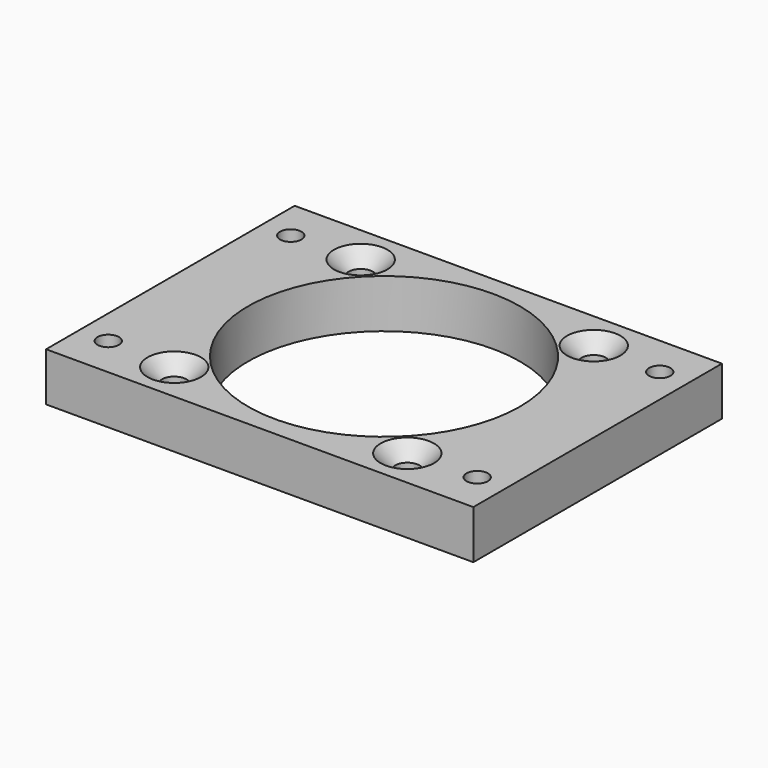
from build123d import *

# Parameters (mm, degrees)
CYLINDER006_R     = 1.25
CYLINDER006_DEPTH = 10
CYLINDER007_R     = 1.25
CYLINDER007_DEPTH = 10
CYLINDER008_R     = 1.25
CYLINDER008_DEPTH = 10
CYLINDER001_R     = 1.25
CYLINDER001_DEPTH = 10
CYLINDER003_R     = 1.1
CYLINDER003_DEPTH = 10
CYLINDER004_R     = 1.1
CYLINDER004_DEPTH = 10
CYLINDER005_R     = 1.1
CYLINDER005_DEPTH = 10
CYLINDER002_R     = 1.1
CYLINDER002_DEPTH = 10
CYLINDER_R        = 14
CYLINDER_DEPTH    = 10
BOX_W             = 44
BOX_H             = 32
BOX_DEPTH         = 5
CHAMFER_SIZE      = 1.5
CHAMFER001_SIZE   = 1.5


with BuildPart() as cylinder006:
    # Cylinder006 → Cylinder006 (new body)
    with BuildSketch(Plane(origin=(10, 28, 0), x_dir=(1, 0, 0), z_dir=(0, 0, 1))):
        Circle(CYLINDER006_R)
    extrude(amount=CYLINDER006_DEPTH)


with BuildPart() as cylinder007:
    # Cylinder007 → Cylinder007 (new body)
    with BuildSketch(Plane(origin=(34, 28, 0), x_dir=(1, 0, 0), z_dir=(0, 0, 1))):
        Circle(CYLINDER007_R)
    extrude(amount=CYLINDER007_DEPTH)


with BuildPart() as cylinder008:
    # Cylinder008 → Cylinder008 (new body)
    with BuildSketch(Plane(origin=(34, 4, 0), x_dir=(1, 0, 0), z_dir=(0, 0, 1))):
        Circle(CYLINDER008_R)
    extrude(amount=CYLINDER008_DEPTH)


with BuildPart() as fusion001:
    # Cylinder001 → Cylinder001 (new body)
    with BuildSketch(Plane(origin=(10, 4, 0), x_dir=(1, 0, 0), z_dir=(0, 0, 1))):
        Circle(CYLINDER001_R)
    extrude(amount=CYLINDER001_DEPTH)

    # Fusion001: union Cylinder006, Cylinder007, Cylinder008
    add(cylinder006.part)
    add(cylinder007.part)
    add(cylinder008.part)


with BuildPart() as cylinder003:
    # Cylinder003 → Cylinder003 (new body)
    with BuildSketch(Plane(origin=(3, 27.75, 0), x_dir=(1, 0, 0), z_dir=(0, 0, 1))):
        Circle(CYLINDER003_R)
    extrude(amount=CYLINDER003_DEPTH)


with BuildPart() as cylinder004:
    # Cylinder004 → Cylinder004 (new body)
    with BuildSketch(Plane(origin=(41, 4.25, 0), x_dir=(1, 0, 0), z_dir=(0, 0, 1))):
        Circle(CYLINDER004_R)
    extrude(amount=CYLINDER004_DEPTH)


with BuildPart() as cylinder005:
    # Cylinder005 → Cylinder005 (new body)
    with BuildSketch(Plane(origin=(41, 27.75, 0), x_dir=(1, 0, 0), z_dir=(0, 0, 1))):
        Circle(CYLINDER005_R)
    extrude(amount=CYLINDER005_DEPTH)


with BuildPart() as fusion:
    # Cylinder002 → Cylinder002 (new body)
    with BuildSketch(Plane(origin=(3, 4.25, 0), x_dir=(1, 0, 0), z_dir=(0, 0, 1))):
        Circle(CYLINDER002_R)
    extrude(amount=CYLINDER002_DEPTH)

    # Fusion: union Cylinder003, Cylinder004, Cylinder005
    add(cylinder003.part)
    add(cylinder004.part)
    add(cylinder005.part)


with BuildPart() as cylinder:
    # Cylinder → Cylinder (new body)
    with BuildSketch(Plane(origin=(22, 16, -1), x_dir=(1, 0, 0), z_dir=(0, 0, 1))):
        Circle(CYLINDER_R)
    extrude(amount=CYLINDER_DEPTH)


with BuildPart() as chamfer001:
    # Box → Box (new body)
    with BuildSketch(Plane.XY.offset(1)):
        with Locations((22, 16)):
            Rectangle(BOX_W, BOX_H)
    extrude(amount=BOX_DEPTH)

    # Cut: cut Cylinder
    add(cylinder.part, mode=Mode.SUBTRACT)

    # Cut001: cut Fusion
    add(fusion.part, mode=Mode.SUBTRACT)

    # Cut002: cut Fusion001
    add(fusion001.part, mode=Mode.SUBTRACT)

    # Chamfer
    chamfer_edges = [chamfer001.edges().sort_by_distance(p)[0] for p in [
        (8.75, 28, 6),
    ]]
    chamfer(chamfer_edges, length=CHAMFER_SIZE)

    # Chamfer001
    chamfer001_edges = [chamfer001.edges().sort_by_distance(p)[0] for p in [
        (32.75, 4, 6),
        (32.75, 28, 6),
        (8.75, 4, 6),
    ]]
    chamfer(chamfer001_edges, length=CHAMFER001_SIZE)


solid = chamfer001.part
